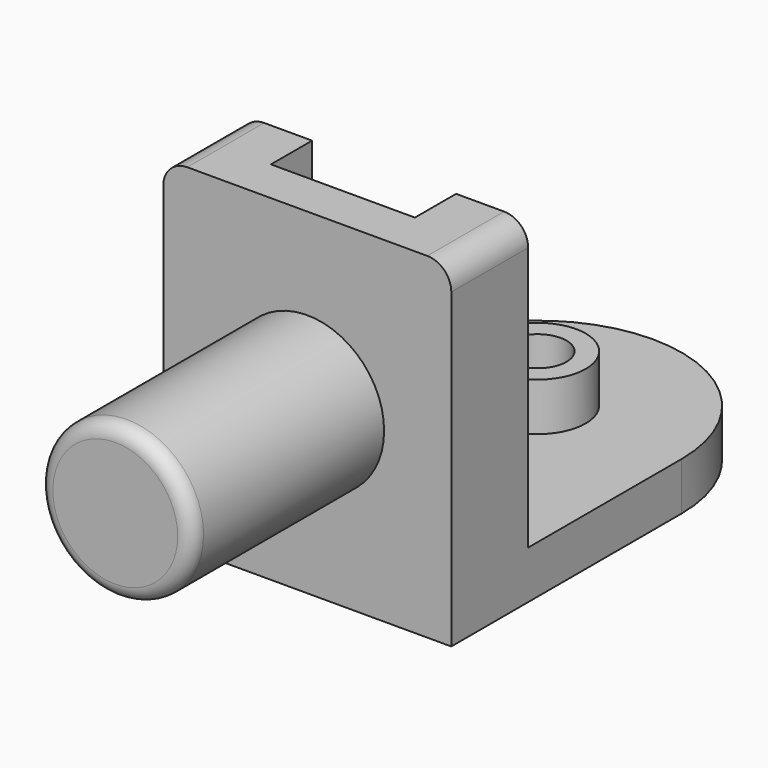
from build123d import *

# Parameters (mm, degrees)
F0_R      = 25.4
F0_R_2    = 15.24
F1_DEPTH  = 50.8
F2_DEPTH  = 25.4
F0_W      = 152.4
F0_H      = 50.8
F3_DEPTH  = 177.8
F4_R      = 40.64
F5_DEPTH  = 127
F6_R      = 7.62
F9_DEPTH  = 164.846
F10_DEPTH = 38.1
F11_DEPTH = 38.1
F12_R     = 12.7


with BuildPart() as f1:
    # F0 (on Top) → F1 (new body)
    with BuildSketch(Plane.XY):
        with Locations((38.1820415974, 54.4787267387)):
            Circle(F0_R)
        with Locations((38.1820415974, 54.4787267387)):
            Circle(F0_R_2, mode=Mode.SUBTRACT)
    extrude(amount=F1_DEPTH)

    # F0 (on Top) → F2 (join)
    with BuildSketch(Plane.XY):
        with BuildLine():
            Line((114.3820415974, -47.1212732613), (114.3820415974, 54.4787267387))
            ThreePointArc((114.3820415974, 54.4787267387), (92.0635783238, 108.3602634651), (38.1820415974, 130.6787267387))
            ThreePointArc((38.1820415974, 130.6787267387), (-15.699495129, 108.3602634651), (-38.0179584026, 54.4787267387))
            Line((-38.0179584026, 54.4787267387), (-38.0179584026, -47.1212732613))
            Line((-38.0179584026, -47.1212732613), (114.3820415974, -47.1212732613))
        make_face()
        with Locations((38.1820415974, 54.4787267387)):
            Circle(F0_R, mode=Mode.SUBTRACT)
    extrude(amount=F2_DEPTH)

    # F0 (on Top) → F3 (join)
    with BuildSketch(Plane.XY):
        with Locations((38.1820415974, -72.5212732613)):
            Rectangle(F0_W, F0_H)
    extrude(amount=F3_DEPTH)

    # F4 (on face) → F5 (join)
    with BuildSketch(Plane.XZ.offset(97.9212732613)):
        with Locations((38.1820415974, 88.9)):
            Circle(F4_R)
    extrude(amount=F5_DEPTH)

    # F6
    f6_edges = [f1.edges().sort_by_distance(p)[0] for p in [
        (-2.457958, -224.921273, 88.9),
    ]]
    fillet(f6_edges, radius=F6_R)

    # F8 (on face) → F9 (cut)
    with BuildSketch(Plane(origin=(-38.0179584026, 0, 0), x_dir=(0, -1, 0), z_dir=(-1, 0, 0))):
        Polygon((74.3449112123, 177.8), (47.1212732613, 177.8), (47.1212732613, 76.2), align=None)
    extrude(amount=-F9_DEPTH, mode=Mode.SUBTRACT)

    # F7 (on face) → F10 (join)
    with BuildSketch(Plane.YZ.offset(114.3820415974)):
        Polygon((-47.1212732613, 25.4), (-47.1212732613, 76.2), (-74.3449112123, 177.8), (-97.9212732613, 177.8), (-97.9212732613, 0), (54.4787267387, 0), (54.4787267387, 25.4), align=None)
        Polygon((-47.1212732613, 76.2), (-47.1212732613, 177.8), (-74.3449112123, 177.8), align=None)
    extrude(amount=-F10_DEPTH)

    # F8 (on face) → F11 (join)
    with BuildSketch(Plane(origin=(-38.0179584026, 0, 0), x_dir=(0, -1, 0), z_dir=(-1, 0, 0))):
        Polygon((74.3449112123, 177.8), (47.1212732613, 177.8), (47.1212732613, 76.2), align=None)
        Polygon((74.3449112123, 177.8), (47.1212732613, 76.2), (47.1212732613, 25.4), (-54.4787267387, 25.4), (-54.4787267387, 0), (97.9212732613, 0), (97.9212732613, 177.8), align=None)
    extrude(amount=-F11_DEPTH)

    # F12
    f12_edges = [f1.edges().sort_by_distance(p)[0] for p in [
        (114.382042, -72.521273, 177.8),
        (-38.017958, -72.521273, 177.8),
    ]]
    fillet(f12_edges, radius=F12_R)


solid = f1.part
